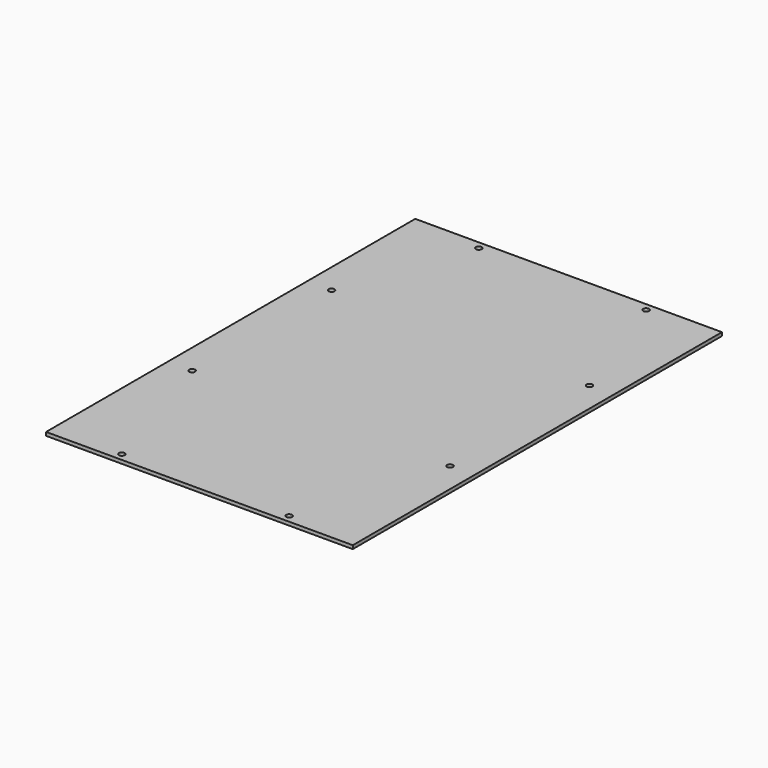
from build123d import *

# Parameters (mm, degrees)
F0_W     = 220
F0_H     = 331
F2_DEPTH = 2.5
F3_D     = 4.2
F3_DEPTH = 2.5
F3_TIP   = 1.2618073


with BuildPart() as f2:
    # F0 (on Top) → F2 (new body)
    with BuildSketch(Plane.XY):
        Rectangle(F0_W, F0_H)
    extrude(amount=F2_DEPTH)

    # F3
    with Locations(Plane(origin=(0, 0, 0), x_dir=(1, 0, 0), z_dir=(0, 0, -1))):
        with Locations((60, -160), (-60, -160), (-92.5, -68.6), (92.5, -68.6), (92.5, 56.4), (-92.5, 56.4), (-60, 160), (60, 160)):
            Hole(F3_D / 2, depth=F3_DEPTH)
            with Locations((0, 0, -(F3_DEPTH + F3_TIP / 2))):  # 118° drill point
                Cone(0, F3_D / 2, F3_TIP, mode=Mode.SUBTRACT)


solid = f2.part
